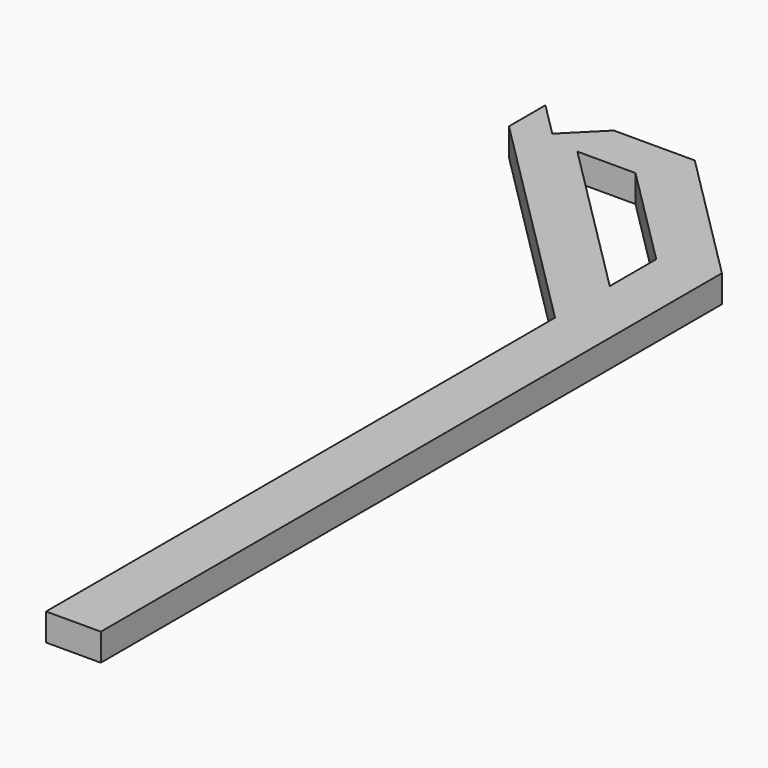
from build123d import *

# Parameters (mm, degrees)
F1_DEPTH = 1.905


with BuildPart() as f1:
    # F0 (on Top) → F1 (new body, symmetric)
    with BuildSketch(Plane.XY):
        Polygon((-3.81, 88.5825), (-3.81, 0), (3.81, 0), (3.81, 108.10875), (-3.81, 115.72875), (-3.81, 106.20375), (-3.81, 98.1075), align=None)
        Polygon((-31.115, 115.8875), (-3.81, 88.5825), (-3.81, 98.1075), (-26.3525, 120.65), (-18.25625, 120.65), (-8.73125, 120.65), (-15.08125, 127), (-26.3525, 127), (-31.115, 122.2375), (-35.8775, 127), (-35.8775, 120.65), align=None)
        Polygon((-3.81, 106.20375), (-3.81, 115.72875), (-8.73125, 120.65), (-18.25625, 120.65), align=None)
    extrude(amount=F1_DEPTH, both=True)


solid = f1.part
